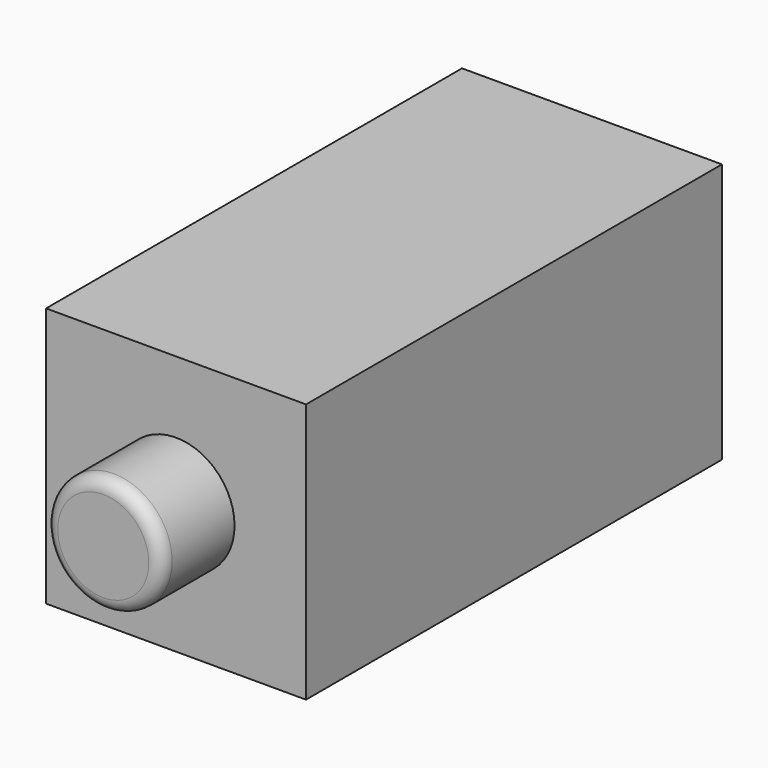
from build123d import *

# Parameters (mm, degrees)
F0_W     = 20
F0_H     = 20
F1_DEPTH = 40
F2_R     = 4.5
F3_DEPTH = 7
F4_R     = 4.5
F5_DEPTH = 7
F6_R     = 1


with BuildPart() as f1:
    # F0 (on Front) → F1 (new body)
    with BuildSketch(Plane.XZ):
        Rectangle(F0_W, F0_H)
    extrude(amount=F1_DEPTH)

    # F2 (on face) → F3 (join)
    with BuildSketch(Plane(origin=(0, 0, 0), x_dir=(-1, 0, 0), z_dir=(0, 1, 0))):
        Circle(F2_R)
    extrude(amount=F3_DEPTH)

    # F4 (on face) → F5 (join)
    with BuildSketch(Plane.XZ.offset(40)):
        Circle(F4_R)
    extrude(amount=F5_DEPTH)

    # F6
    f6_edges = [f1.edges().sort_by_distance(p)[0] for p in [
        (-4.5, -47, 0),
        (4.5, 7, 0),
    ]]
    fillet(f6_edges, radius=F6_R)


solid = f1.part
